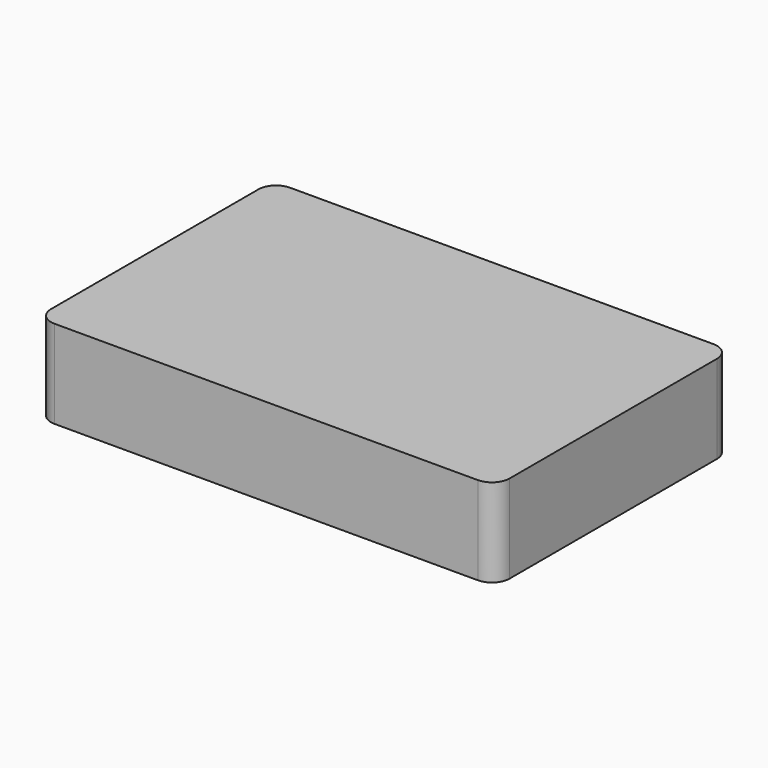
from build123d import *

# Parameters (mm, degrees)
PAD_DEPTH = 50


with BuildPart() as part:
    # Sketch → Pad (new body)
    with BuildSketch(Plane.XY):
        with BuildLine():
            ThreePointArc((10, 167), (2.928932, 164.071068), (0, 157))
            Line((0, 10), (0, 157))
            ThreePointArc((0, 10), (2.928932, 2.928932), (10, 0))
            Line((250, 0), (10, 0))
            ThreePointArc((250, 0), (257.071068, 2.928932), (260, 10))
            Line((260, 157), (260, 10))
            ThreePointArc((260, 157), (257.071068, 164.071068), (250, 167))
            Line((10, 167), (250, 167))
        make_face()
    extrude(amount=PAD_DEPTH)


solid = part.part
